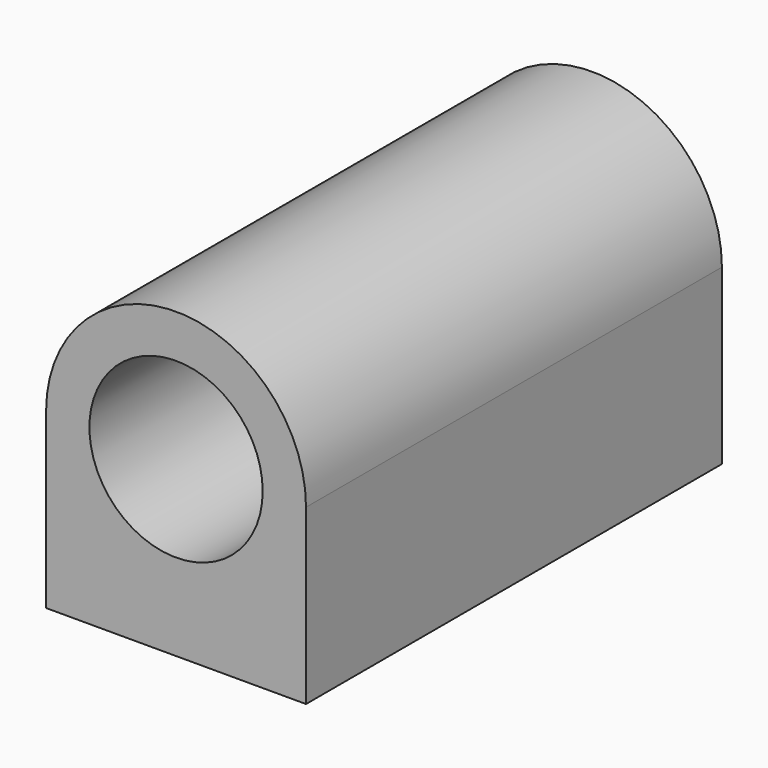
from build123d import *

# Parameters (mm, degrees)
F0_R     = 12.7
F1_DEPTH = 38.1
F2_R     = 1.651
F3_DEPTH = 12.7


with BuildPart() as f1:
    # F0 (on Front) → F1 (new body, symmetric)
    with BuildSketch(Plane.XZ):
        with BuildLine():
            Line((19.05, -25.4), (19.05, 0))
            ThreePointArc((19.05, 0), (0, 19.05), (-19.05, 0))
            Line((-19.05, 0), (-19.05, -25.4))
            Line((-19.05, -25.4), (19.05, -25.4))
        make_face()
        Circle(F0_R, mode=Mode.SUBTRACT)
    extrude(amount=F1_DEPTH, both=True)

    # F2 (on face) → F3 (cut)
    with BuildSketch(Plane(origin=(0, 0, -25.4), x_dir=(1, 0, 0), z_dir=(0, 0, -1))):
        with Locations((-12.7, 31.75)):
            Circle(F2_R)
        with Locations((12.7, 31.75)):
            Circle(F2_R)
        with Locations((12.7, -31.75)):
            Circle(F2_R)
        with Locations((-12.7, -31.75)):
            Circle(F2_R)
    extrude(amount=-F3_DEPTH, mode=Mode.SUBTRACT)


solid = f1.part
